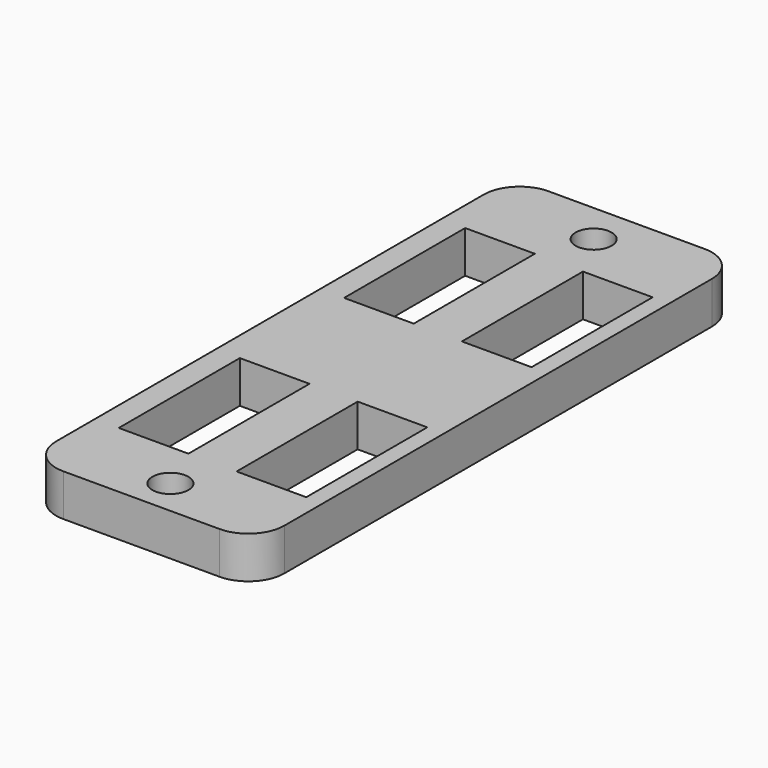
from build123d import *

# Parameters (mm, degrees)
SKETCH_W     = 19
SKETCH_H     = 50.5
PAD_DEPTH    = 3.5
SKETCH001_R  = 1.5
SKETCH001_W  = 5.8
SKETCH001_H  = 12.6
POCKET_DEPTH = 3.5
FILLET_R     = 3
FILLET001_R  = 3
FILLET002_R  = 3
FILLET003_R  = 3


with BuildPart() as part:
    # Sketch → Pad (new body)
    with BuildSketch(Plane.XY):
        with Locations((7.5, 18.23)):
            Rectangle(SKETCH_W, SKETCH_H)
    extrude(amount=PAD_DEPTH)

    # Sketch001 (on Face6 of Pad) → Pocket (cut)
    with BuildSketch(Plane.XY.offset(3.5)):
        with Locations((7.5, -4)):
            Circle(SKETCH001_R)
        with Locations((7.5, 40.05)):
            Circle(SKETCH001_R)
        with Locations((2.9, 29.75)):
            Rectangle(SKETCH001_W, SKETCH001_H)
        with Locations((12.71, 29.75)):
            Rectangle(SKETCH001_W, SKETCH001_H)
        with Locations((2.9, 6.3)):
            Rectangle(SKETCH001_W, SKETCH001_H)
        with Locations((12.71, 6.3)):
            Rectangle(SKETCH001_W, SKETCH001_H)
    extrude(amount=-POCKET_DEPTH, mode=Mode.SUBTRACT)

    # Fillet
    fillet_edges = [part.edges().sort_by_distance(p)[0] for p in [
        (-2, 43.48, 1.75),
    ]]
    fillet(fillet_edges, radius=FILLET_R)

    # Fillet001
    fillet001_edges = [part.edges().sort_by_distance(p)[0] for p in [
        (17, 43.48, 1.75),
    ]]
    fillet(fillet001_edges, radius=FILLET001_R)

    # Fillet002
    fillet002_edges = [part.edges().sort_by_distance(p)[0] for p in [
        (17, -7.02, 1.75),
    ]]
    fillet(fillet002_edges, radius=FILLET002_R)

    # Fillet003
    fillet003_edges = [part.edges().sort_by_distance(p)[0] for p in [
        (-2, -7.02, 1.75),
    ]]
    fillet(fillet003_edges, radius=FILLET003_R)


solid = part.part
